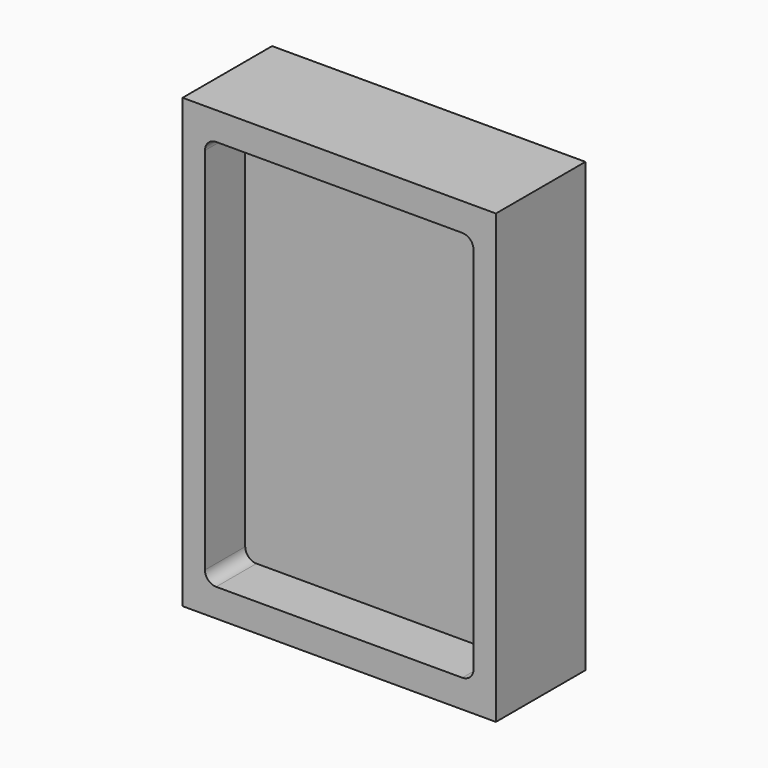
from build123d import *

# Parameters (mm, degrees)
F0_W     = 140
F0_H     = 200
F1_DEPTH = 50
F2_W     = 120
F2_H     = 175
F3_DEPTH = 22.5
F4_W     = 120
F4_H     = 175
F5_DEPTH = 22.5
F6_R     = 5


with BuildPart() as f1:
    # F0 (on Front) → F1 (new body)
    with BuildSketch(Plane.XZ):
        with Locations((70, 100)):
            Rectangle(F0_W, F0_H)
    extrude(amount=F1_DEPTH)

    # F2 (on face) → F3 (cut)
    with BuildSketch(Plane.XZ.offset(50)):
        with Locations((70, 100)):
            Rectangle(F2_W, F2_H)
    extrude(amount=-F3_DEPTH, mode=Mode.SUBTRACT)

    # F4 (on face) → F5 (cut)
    with BuildSketch(Plane(origin=(0, 0, 0), x_dir=(-1, 0, 0), z_dir=(0, 1, 0))):
        with Locations((-70, 100)):
            Rectangle(F4_W, F4_H)
    extrude(amount=-F5_DEPTH, mode=Mode.SUBTRACT)

    # F6
    f6_edges = [f1.edges().sort_by_distance(p)[0] for p in [
        (130, -38.75, 187.5),
        (10, -38.75, 187.5),
        (10, -38.75, 12.5),
        (130, -38.75, 12.5),
        (130, -11.25, 187.5),
        (10, -11.25, 187.5),
        (10, -11.25, 12.5),
        (130, -11.25, 12.5),
    ]]
    fillet(f6_edges, radius=F6_R)


solid = f1.part
